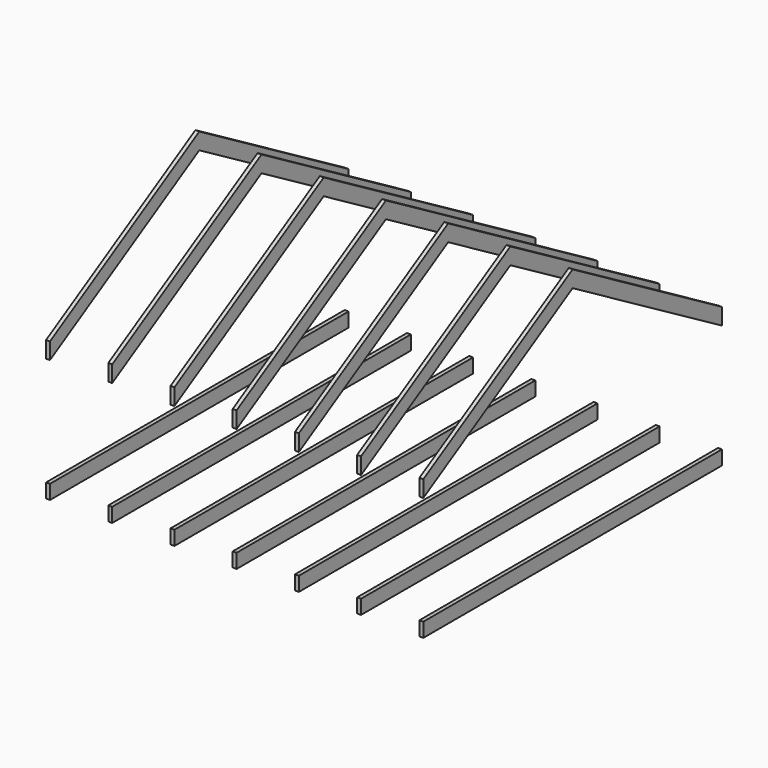
from build123d import *

# Parameters (mm, degrees)
F0_W     = 3657.6
F0_H     = 139.7
F1_DEPTH = 3962.4
F2_W     = 266.7
F2_H     = 1206.5
F2_W_2   = 571.5
F2_H_2   = 161.7312021105
F2_H_3   = 1066.8
F3_DEPTH = 3657.601


with BuildPart() as f1:
    # F0 (on Right) → F1 (new body)
    with BuildSketch(Plane.YZ):
        with Locations((1828.8, -69.85)):
            Rectangle(F0_W, F0_H)
    extrude(amount=F1_DEPTH)


with BuildPart() as f1b:
    # F0 (on Right) → F1, piece 2 (new body)
    with BuildSketch(Plane.YZ):
        Polygon((0, 1228.5312021105), (0, 1066.8), (1828.8, 2133.6), (3657.6, 1066.8), (3657.6, 1228.5312021105), (1828.8, 2295.3312021105), align=None)
    extrude(amount=F1_DEPTH)


with BuildPart() as f3_tool:
    # F2 (on face) → F3 (new body, through all)
    with BuildSketch(Plane.XZ):
        with Locations((133.35, 463.55)):
            Rectangle(F2_W, F2_H)
        with Locations((1200.15, 463.55)):
            Rectangle(F2_W_2, F2_H)
        with Locations((1809.75, 463.55)):
            Rectangle(F2_W_2, F2_H)
        with Locations((2419.35, 463.55)):
            Rectangle(F2_W_2, F2_H)
        with Locations((3028.95, 463.55)):
            Rectangle(F2_W_2, F2_H)
        with Locations((3638.55, 463.55)):
            Rectangle(F2_W_2, F2_H)
        with Locations((3638.55, 1147.6656010553)):
            Rectangle(F2_W_2, F2_H_2)
        with Locations((3028.95, 1147.6656010553)):
            Rectangle(F2_W_2, F2_H_2)
        with Locations((2419.35, 1147.6656010553)):
            Rectangle(F2_W_2, F2_H_2)
        with Locations((1809.75, 1147.6656010553)):
            Rectangle(F2_W_2, F2_H_2)
        with Locations((133.35, 1147.6656010553)):
            Rectangle(F2_W, F2_H_2)
        with Locations((590.55, 1147.6656010553)):
            Rectangle(F2_W_2, F2_H_2)
        with Locations((1200.15, 1147.6656010553)):
            Rectangle(F2_W_2, F2_H_2)
        with Locations((133.35, 1761.9312021105)):
            Rectangle(F2_W, F2_H_3)
        with Locations((590.55, 1761.9312021105)):
            Rectangle(F2_W_2, F2_H_3)
        with Locations((1200.15, 1761.9312021105)):
            Rectangle(F2_W_2, F2_H_3)
        with Locations((1809.75, 1761.9312021105)):
            Rectangle(F2_W_2, F2_H_3)
        with Locations((2419.35, 1761.9312021105)):
            Rectangle(F2_W_2, F2_H_3)
        with Locations((3028.95, 1761.9312021105)):
            Rectangle(F2_W_2, F2_H_3)
        with Locations((3638.55, 1761.9312021105)):
            Rectangle(F2_W_2, F2_H_3)
        with Locations((590.55, 463.55)):
            Rectangle(F2_W_2, F2_H)
    extrude(amount=-F3_DEPTH)


with BuildPart() as f1_1:
    add(f1.part)

    # F3: cut by f3_tool
    add(f3_tool.part, mode=Mode.SUBTRACT)


with BuildPart() as f1b_1:
    add(f1b.part)

    # F3: cut by f3_tool
    add(f3_tool.part, mode=Mode.SUBTRACT)


solid = Compound([f1_1.part, f1b_1.part])
